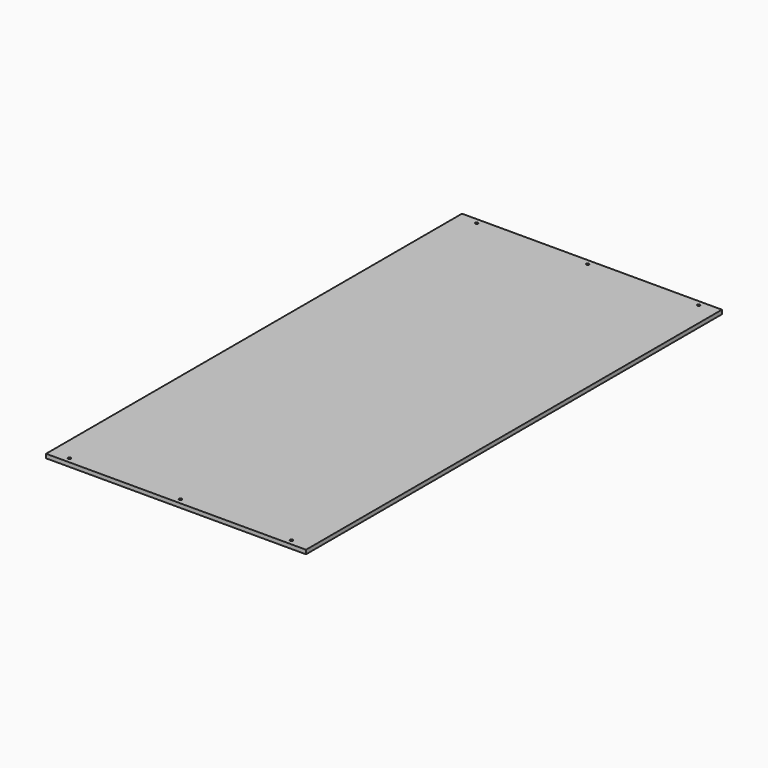
from build123d import *

# Parameters (mm, degrees)
F0_W           = 1219.2
F0_H           = 2438.4
F1_DEPTH       = 19.05
F3_D           = 6.7564
F3_DEPTH       = 25.4
F3_CSINK_D     = 13.4874
F3_CSINK_ANGLE = 82
F3_TIP         = 2.0298273432


with BuildPart() as f1:
    # F0 (on Top) → F1 (new body)
    with BuildSketch(Plane.XY):
        Rectangle(F0_W, F0_H)
    extrude(amount=F1_DEPTH)

    # F3
    with Locations(Plane.XY.offset(19.05)):
        with Locations((-520.7, -1193.8), (0, -1193.8), (520.7, -1193.8), (520.7, 1193.8), (0, 1193.8), (-520.7, 1193.8)):
            CounterSinkHole(F3_D / 2, F3_CSINK_D / 2, depth=F3_DEPTH, counter_sink_angle=F3_CSINK_ANGLE)
            with Locations((0, 0, -(F3_DEPTH + F3_TIP / 2))):  # 118° drill point
                Cone(0, F3_D / 2, F3_TIP, mode=Mode.SUBTRACT)


solid = f1.part
